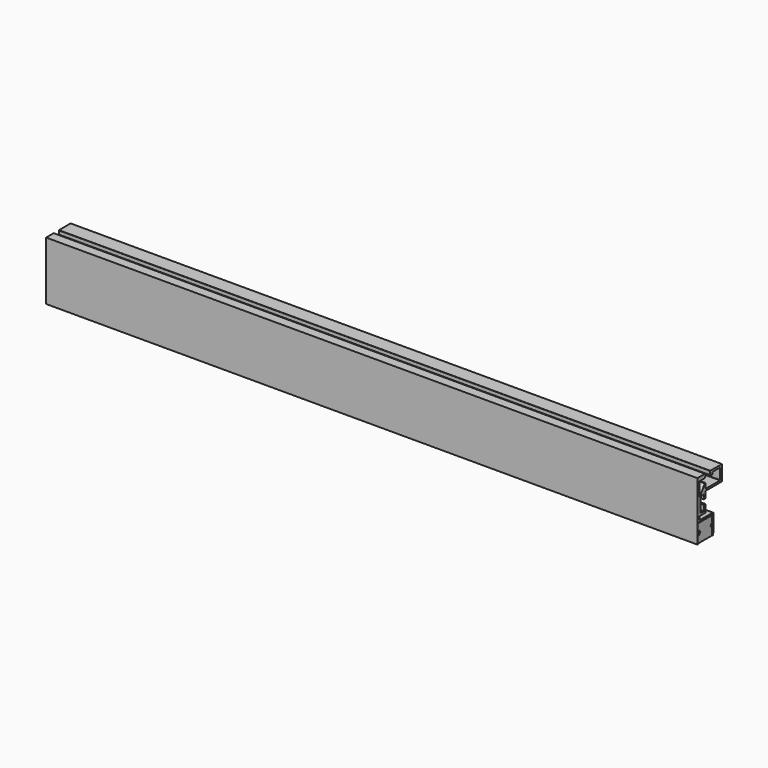
from build123d import *

# Parameters (mm, degrees)
F1_DEPTH = 450


with BuildPart() as f1:
    # F0 (on Right) → F1 (new body)
    with BuildSketch(Plane.YZ):
        Polygon((97.953237, 9.576591), (97.953237, 20.209017), (88.106465, 20.209017), (87.959187, 20.159924), (87.860829, 20.061739), (87.811737, 19.914461), (87.811737, 17.704432), (87.836541, 17.704432), (87.885806, 17.507717), (87.983819, 17.360612), (88.131269, 17.262254), (88.32764, 17.213162), (89.309664, 17.213162), (89.506207, 17.262254), (89.653657, 17.360612), (89.751842, 17.507717), (89.800935, 17.704432), (89.825395, 17.704432), (89.825395, 18.711261), (96.136121, 18.711261), (96.283571, 18.661997), (96.381584, 18.563811), (96.430677, 18.416361), (96.455309, 18.416361), (96.455309, 11.197164), (96.430677, 11.197164), (96.381584, 11.049886), (96.283571, 10.951701), (96.136121, 10.902263), (96.136121, 10.877976), (83.809397, 10.877976), (83.809397, 14.291204), (83.760132, 14.438482), (83.613027, 14.487747), (83.318299, 14.487747), (83.146388, 14.389389), (83.146388, 14.414022), (78.947506, 8.054203), (78.922874, 8.054203), (78.800056, 7.955846), (78.677238, 7.931385), (78.529961, 7.980478), (78.431775, 8.078663), (78.382683, 8.226113), (78.382683, 17.606075), (82.778108, 17.606075), (82.778108, 17.630707), (82.999283, 17.6798), (83.195481, 17.85171), (83.195481, 17.827078), (83.637487, 18.490086), (83.613027, 18.514719), (83.735672, 18.760354), (83.784937, 19.05491), (83.809397, 19.05491), (83.809397, 19.619733), (83.784937, 19.619733), (83.735672, 19.840736), (83.613027, 20.037279), (83.416656, 20.159924), (83.195481, 20.209017), (76.78657, 20.209017), (76.78657, -20.209016), (77.793399, -20.209016), (77.793399, -14.585931), (77.916045, -14.414021), (77.891584, -14.414021), (78.16168, -14.021108), (78.308958, -13.603562), (78.358223, -13.136924), (78.358223, -13.063371), (78.308958, -12.596733), (78.16168, -12.17936), (77.891584, -11.786274), (77.916045, -11.786274), (77.793399, -11.614708), (77.793399, -7.170018), (89.727382, -7.170018), (89.727382, -11.614708), (89.57976, -11.786274), (89.604564, -11.786274), (89.334469, -12.17936), (89.187019, -12.596733), (89.137926, -13.063371), (89.137926, -13.136924), (89.187019, -13.603562), (89.334469, -14.021108), (89.604564, -14.414021), (89.57976, -14.414021), (89.727382, -14.585931), (89.727382, -20.012645), (90.02211, -20.012645), (90.562129, -18.490085), (90.537669, -18.490085), (90.660314, -17.998987), (90.709579, -17.508061), (90.733867, -17.508061), (90.733867, -6.875291), (90.709579, -6.875291), (90.684774, -6.65446), (90.586589, -6.48255), (90.414851, -6.310639), (90.242768, -6.212454), (90.02211, -6.187994), (90.02211, -6.163534), (78.775596, -6.163534), (78.775596, -3.658949), (83.809397, -3.658949), (83.809397, 1.64512), (82.286837, 1.64512), (82.286837, -2.160677), (79.291327, -2.160677), (79.291327, 6.237087), (80.518986, 8.078663), (81.402912, 8.078663), (82.286837, 8.078663), (82.286837, 5.058348), (83.809397, 5.058348), (83.809397, 9.576591), align=None)
        Polygon((77.940505, -7.489207), (77.940505, -11.737354), (79.389512, -13.505377), (77.940505, -15.24894), (77.940505, -19.816103), (89.57976, -19.816103), (89.57976, -15.24894), (88.106465, -13.505377), (89.57976, -11.737354), (89.57976, -7.489207), align=None)
    extrude(amount=F1_DEPTH)


solid = f1.part
